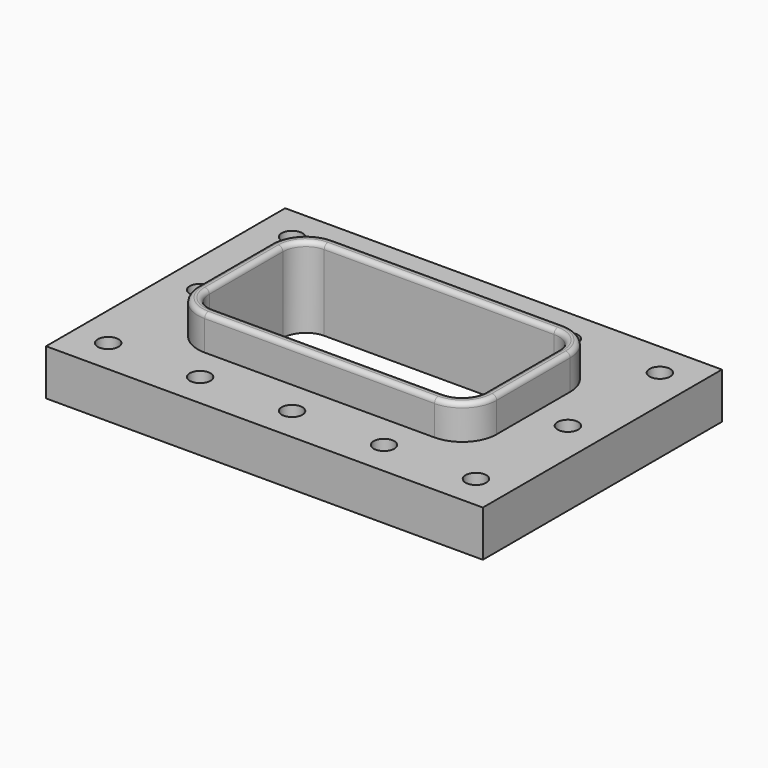
from build123d import *

# Parameters (mm, degrees)
F0_W     = 95
F0_H     = 65
F1_DEPTH = 10
F3_DEPTH = 7.5
F4_R     = 1
F6_DEPTH = 10.001
F7_R     = 2.25
F8_DEPTH = 10.001


with BuildPart() as f1:
    # F0 (on Top) → F1 (new body)
    with BuildSketch(Plane.XY):
        Rectangle(F0_W, F0_H)
    extrude(amount=F1_DEPTH)

    # F2 (on face) → F3 (join)
    with BuildSketch(Plane.XY.offset(10)):
        with BuildLine():
            Line((32.5, -10), (32.5, 10))
            ThreePointArc((32.5, 10), (30.303301, 15.303301), (25, 17.5))
            Line((25, 17.5), (-25, 17.5))
            ThreePointArc((-25, 17.5), (-30.303301, 15.303301), (-32.5, 10))
            Line((-32.5, 10), (-32.5, -10))
            ThreePointArc((-32.5, -10), (-30.303301, -15.303301), (-25, -17.5))
            Line((-25, -17.5), (25, -17.5))
            ThreePointArc((25, -17.5), (30.303301, -15.303301), (32.5, -10))
        make_face()
        with BuildLine():
            ThreePointArc((30, -10), (28.535534, -13.535534), (25, -15))
            Line((25, -15), (-25, -15))
            ThreePointArc((-25, -15), (-28.535534, -13.535534), (-30, -10))
            Line((-30, -10), (-30, 10))
            ThreePointArc((-30, 10), (-28.535534, 13.535534), (-25, 15))
            Line((-25, 15), (25, 15))
            ThreePointArc((25, 15), (28.535534, 13.535534), (30, 10))
            Line((30, 10), (30, -10))
        make_face(mode=Mode.SUBTRACT)
    extrude(amount=F3_DEPTH)

    # F4
    f4_edges = [f1.edges().sort_by_distance(p)[0] for p in [
        (32.5, 0, 17.5),
        (30.303301, 15.303301, 17.5),
        (0, 17.5, 17.5),
        (-30.303301, 15.303301, 17.5),
        (-32.5, 0, 17.5),
        (-30.303301, -15.303301, 17.5),
        (0, -17.5, 17.5),
        (30.303301, -15.303301, 17.5),
        (28.535534, -13.535534, 17.5),
        (0, -15, 17.5),
        (-28.535534, -13.535534, 17.5),
        (-30, 0, 17.5),
        (-28.535534, 13.535534, 17.5),
        (0, 15, 17.5),
        (28.535534, 13.535534, 17.5),
        (30, 0, 17.5),
    ]]
    fillet(f4_edges, radius=F4_R)

    # F5 (on face) → F6 (cut, through all)
    with BuildSketch(Plane.XY.offset(10)):
        with BuildLine():
            Line((-25, -15), (25, -15))
            ThreePointArc((25, -15), (28.535534, -13.535534), (30, -10))
            Line((30, -10), (30, 10))
            ThreePointArc((30, 10), (28.535534, 13.535534), (25, 15))
            Line((25, 15), (-25, 15))
            ThreePointArc((-25, 15), (-28.535534, 13.535534), (-30, 10))
            Line((-30, 10), (-30, -10))
            ThreePointArc((-30, -10), (-28.535534, -13.535534), (-25, -15))
        make_face()
    extrude(amount=-F6_DEPTH, mode=Mode.SUBTRACT)

    # F7 (on face) → F8 (cut, through all)
    with BuildSketch(Plane.XY.offset(10)):
        with Locations((-40, 25)):
            Circle(F7_R)
        with Locations((-40, 0)):
            Circle(F7_R)
        with Locations((-40, -25)):
            Circle(F7_R)
        with Locations((-20, 25)):
            Circle(F7_R)
        with Locations((-20, -25)):
            Circle(F7_R)
        with Locations((0, 25)):
            Circle(F7_R)
        with Locations((0, -25)):
            Circle(F7_R)
        with Locations((20, 25)):
            Circle(F7_R)
        with Locations((20, -25)):
            Circle(F7_R)
        with Locations((40, 25)):
            Circle(F7_R)
        with Locations((40, 0)):
            Circle(F7_R)
        with Locations((40, -25)):
            Circle(F7_R)
    extrude(amount=-F8_DEPTH, mode=Mode.SUBTRACT)


solid = f1.part
